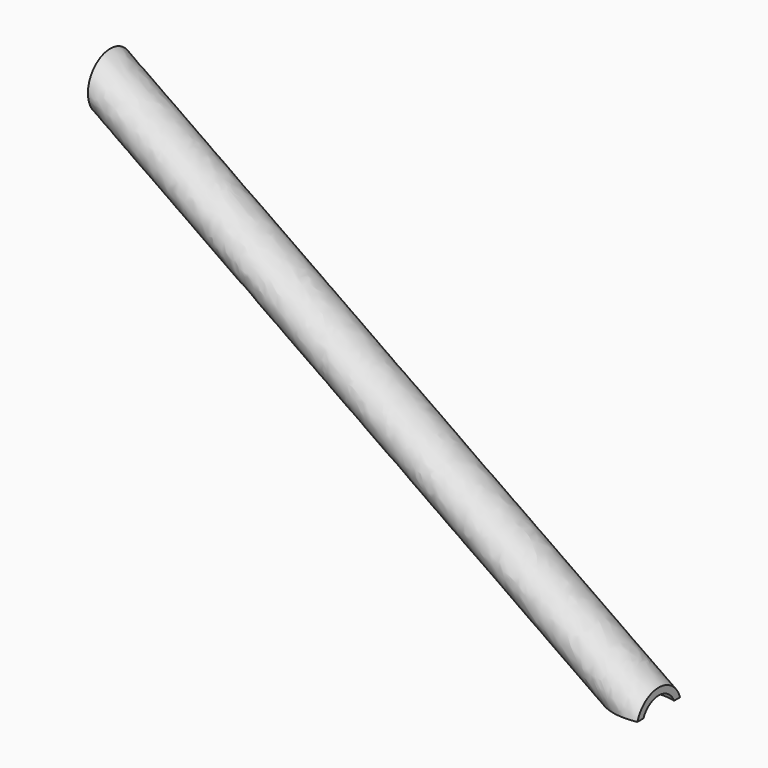
from build123d import *

# Parameters (mm, degrees)
F0_R     = 25.4
F0_R_2   = 19.05
F3_W     = 50.8
F3_H     = 33.02
F4_DEPTH = 499.356086


with BuildPart() as f2:
    # F2: sweep along a path in F1
    with BuildLine(Plane.XZ) as f2_path:
        Line((0, 0), (-499.355086, 349.652196))
    # F0 (on Right) → F2 (sweep)
    with BuildSketch(Plane.YZ):
        Circle(F0_R)
        Circle(F0_R_2, mode=Mode.SUBTRACT)
    sweep(path=f2_path.line)

    # F3 (on face) → F4 (cut, through all)
    with BuildSketch(Plane.YZ):
        with Locations((0, -8.89)):
            Rectangle(F3_W, F3_H)
    extrude(amount=-F4_DEPTH, mode=Mode.SUBTRACT)


solid = f2.part
